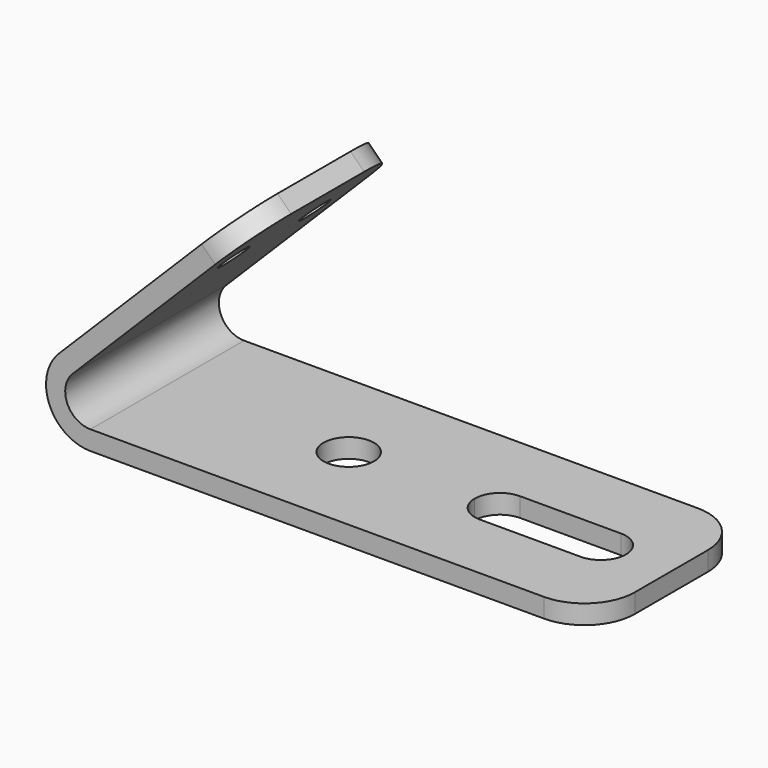
from build123d import *

# Parameters (mm, degrees)
F1_DEPTH = 483.87
F2_R     = 38.1
F3_DEPTH = 76.2
F4_R     = 127
F5_R     = 63.5
F6_DEPTH = 48.261
F8_DEPTH = 48.261
F9_R     = 127


with BuildPart() as f1:
    # F0 (on Front) → F1 (new body)
    with BuildSketch(Plane.XZ):
        with BuildLine():
            ThreePointArc((-79.0262538654, 190.7862538654), (-103.2527765535, 68.9912995989), (0, 0))
            Line((0, 0), (1270, 0))
            Line((1270, 0), (1270, 48.26))
            Line((1270, 48.26), (0, 48.26))
            ThreePointArc((0, 48.26), (-58.6663503145, 87.4596020448), (-44.9012806053, 156.6612806053))
            Line((-44.9012806053, 156.6612806053), (404.1115254481, 605.6740866588))
            Line((404.1115254481, 605.6740866588), (369.986552188, 639.7990599189))
            Line((369.986552188, 639.7990599189), (-79.0262538654, 190.7862538654))
        make_face()
    extrude(amount=-F1_DEPTH)

    # F2 (on face) → F3 (cut)
    with BuildSketch(Plane(origin=(-134.9062538654, 0, 134.9062538654), x_dir=(0, -1, 0), z_dir=(-0.7071067812, 0, 0.7071067812))):
        with Locations((-369.57, 523.5262538654)):
            Circle(F2_R)
        with Locations((-114.3, 523.5262538654)):
            Circle(F2_R)
    extrude(amount=-F3_DEPTH, mode=Mode.SUBTRACT)

    # F4
    f4_edges = [f1.edges().sort_by_distance(p)[0] for p in [
        (387.049039, 483.87, 622.736573),
        (387.049039, 0, 622.736573),
    ]]
    fillet(f4_edges, radius=F4_R)

    # F5 (on face) → F6 (cut, through all)
    with BuildSketch(Plane.XY.offset(48.26)):
        with Locations((457.2, 241.935)):
            Circle(F5_R)
    extrude(amount=-F6_DEPTH, mode=Mode.SUBTRACT)

    # F7 (on face) → F8 (cut, through all)
    with BuildSketch(Plane.XY.offset(48.26)):
        with BuildLine():
            ThreePointArc((901.7, 241.935), (883.1012806053, 286.8362806053), (838.2, 305.435))
            ThreePointArc((838.2, 305.435), (793.2987193947, 286.8362806053), (774.7, 241.935))
            ThreePointArc((774.7, 241.935), (793.2987193947, 197.0337193947), (838.2, 178.435))
            ThreePointArc((838.2, 178.435), (883.1012806053, 197.0337193947), (901.7, 241.935))
        make_face()
        with BuildLine():
            ThreePointArc((1092.2, 178.435), (1028.7, 241.935), (1092.2, 305.435))
            Line((1092.2, 305.435), (838.2, 305.435))
            ThreePointArc((838.2, 305.435), (883.1012806053, 286.8362806053), (901.7, 241.935))
            ThreePointArc((901.7, 241.935), (883.1012806053, 197.0337193947), (838.2, 178.435))
            Line((838.2, 178.435), (1092.2, 178.435))
        make_face()
        with BuildLine():
            ThreePointArc((1155.7, 241.935), (1137.1012806053, 286.8362806053), (1092.2, 305.435))
            ThreePointArc((1092.2, 305.435), (1028.7, 241.935), (1092.2, 178.435))
            ThreePointArc((1092.2, 178.435), (1137.1012806053, 197.0337193947), (1155.7, 241.935))
        make_face()
    extrude(amount=-F8_DEPTH, mode=Mode.SUBTRACT)

    # F9
    f9_edges = [f1.edges().sort_by_distance(p)[0] for p in [
        (1270, 483.87, 24.13),
        (1270, 0, 24.13),
    ]]
    fillet(f9_edges, radius=F9_R)


solid = f1.part
